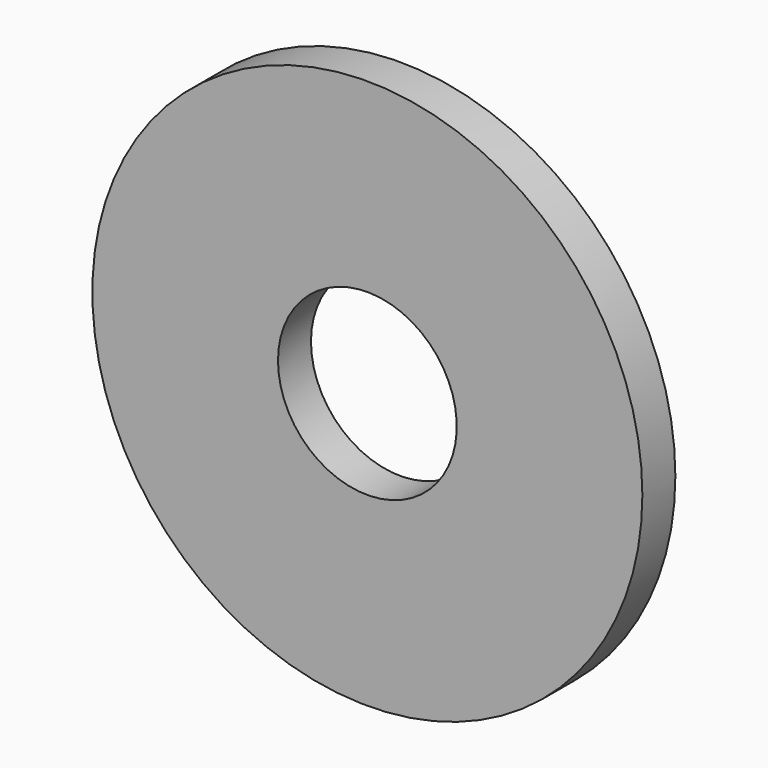
from build123d import *

# Parameters (mm, degrees)
F0_R     = 10
F1_DEPTH = 1.5
F2_D     = 6.5


with BuildPart() as f1:
    # F0 (on Front) → F1 (new body)
    with BuildSketch(Plane.XZ):
        Circle(F0_R)
    extrude(amount=-F1_DEPTH)

    # F2 (through all)
    with Locations(Plane.XZ):
        with Locations((0, 0)):
            Hole(F2_D / 2)


solid = f1.part
